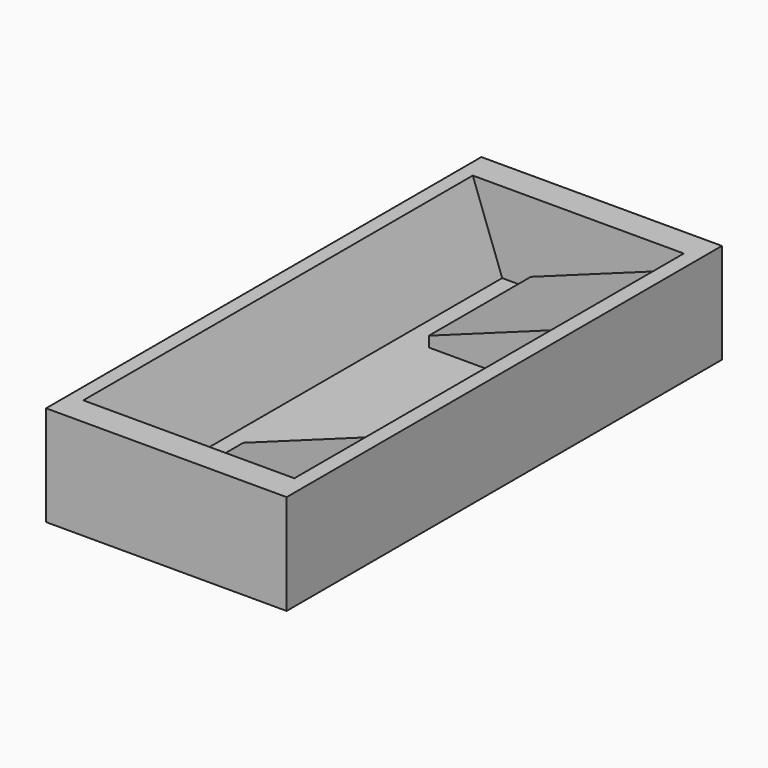
from build123d import *

# Parameters (mm, degrees)
F0_W     = 21.336
F0_H     = 8.89
F1_DEPTH = 24.13
F3_DEPTH = 21.59
F4_W     = 13.57103
F4_H     = 8.926946
F5_DEPTH = 10.287


with BuildPart() as f1:
    # F0 (on Front) → F1 (new body, symmetric)
    with BuildSketch(Plane.XZ):
        with Locations((10.668, 4.445)):
            Rectangle(F0_W, F0_H)
    extrude(amount=F1_DEPTH, both=True)

    # F2 (on Front) → F3 (cut, symmetric)
    with BuildSketch(Plane.XZ):
        Polygon((19.987223, 8.89), (1.27, 8.89), (3.876193, 1.729542), (6.416193, 1.729542), (6.416193, 2.654027), (19.987223, 7.593478), align=None)
    extrude(amount=F3_DEPTH, both=True, mode=Mode.SUBTRACT)

    # F4 (on Front) → F5 (cut, symmetric)
    with BuildSketch(Plane.XZ):
        with Locations((13.201708, 6.193015)):
            Rectangle(F4_W, F4_H)
    extrude(amount=F5_DEPTH, both=True, mode=Mode.SUBTRACT)


solid = f1.part
